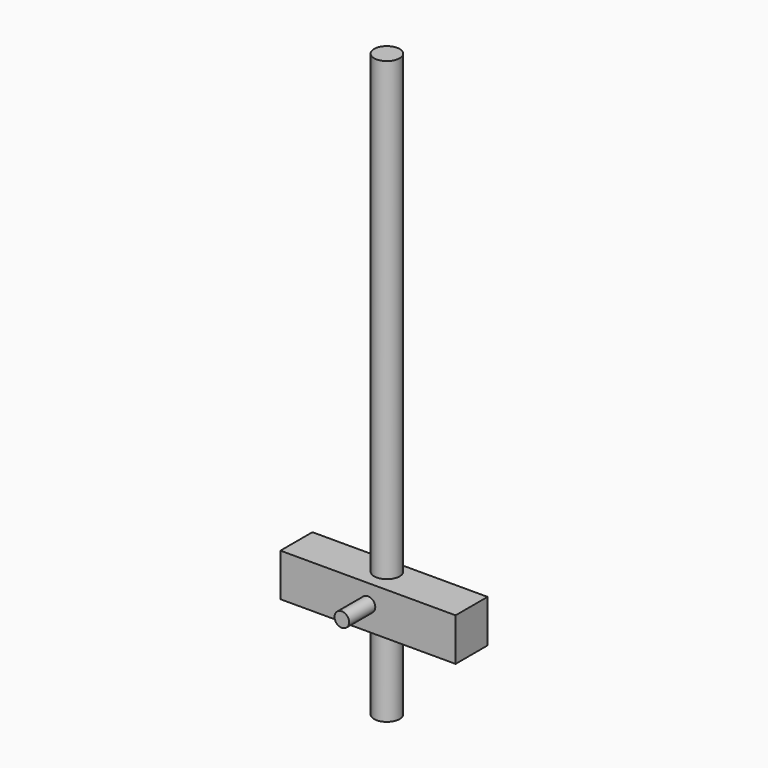
from build123d import *

# Parameters (mm, degrees)
F0_R     = 4.445
F1_DEPTH = 203.2
F2_W     = 61.176687
F2_H     = 14.94658
F2_R     = 2.485662
F3_DEPTH = 13.97
F4_R     = 2.54
F5_DEPTH = 25.4


with BuildPart() as f1:
    # F0 (on Top) → F1 (new body)
    with BuildSketch(Plane.XY):
        with Locations((-34.222286, 8.437074)):
            Circle(F0_R)
    extrude(amount=-F1_DEPTH)

    # F2 (on Front) → F3 (join)
    with BuildSketch(Plane.XZ):
        with Locations((-34.07263, -166.781291)):
            Rectangle(F2_W, F2_H)
        with Locations((-34.072631, -165.9123)):
            Circle(F2_R, mode=Mode.SUBTRACT)
    extrude(amount=-F3_DEPTH)

    # F4 (on face) → F5 (join)
    with BuildSketch(Plane(origin=(0, 13.97, 0), x_dir=(-1, 0, 0), z_dir=(0, 1, 0))):
        with Locations((34.072631, -165.9123)):
            Circle(F4_R)
    extrude(amount=-F5_DEPTH)


solid = f1.part
